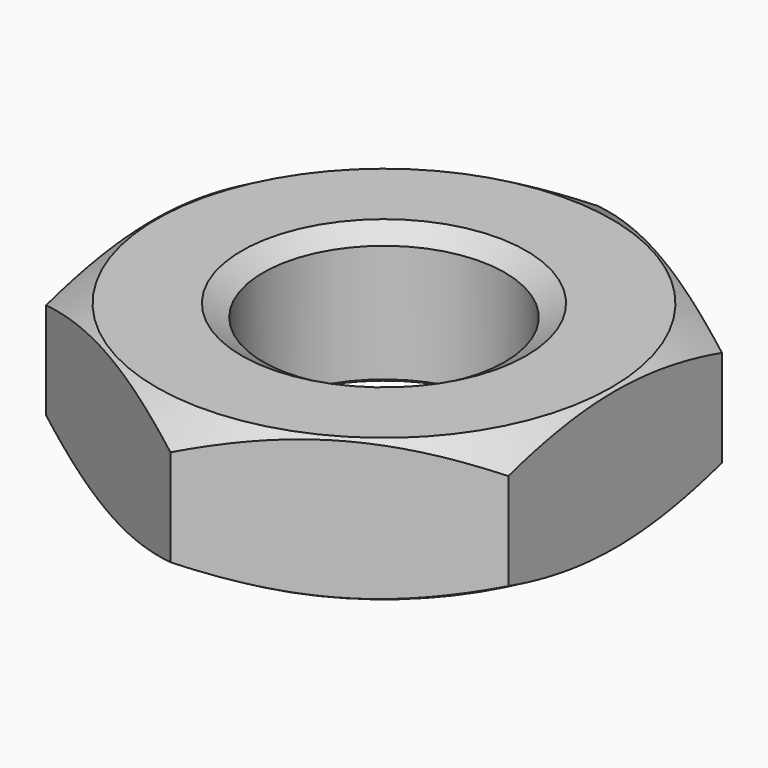
from build123d import *

# Parameters (mm, degrees)
SKETCH001_R  = 8
POCKET_DEPTH = 4


with BuildPart() as part:
    # Sketch → Revolution (revolve)
    with BuildSketch(Plane.XZ):
        Polygon((4, 0), (3.4, 0.34641), (3.4, 3.65359), (4, 4), (6.4, 4), (8, 3.07624), (8, 0.92376), (6.4, 0), align=None)
    revolve(axis=Axis((0, 0, 0), (0, 0, 1)))

    # Sketch001 → Pocket (cut)
    with BuildSketch(Plane(origin=(0, 0, 4), x_dir=(-1, 0, 0), z_dir=(0, 0, 1))):
        Circle(SKETCH001_R)
        Polygon((-6.5, 3.752777), (-6.5, -3.752777), (0, -7.505553), (6.5, -3.752777), (6.5, 3.752777), (0, 7.505553), align=None, mode=Mode.SUBTRACT)
    extrude(amount=-POCKET_DEPTH, mode=Mode.SUBTRACT)


solid = part.part
